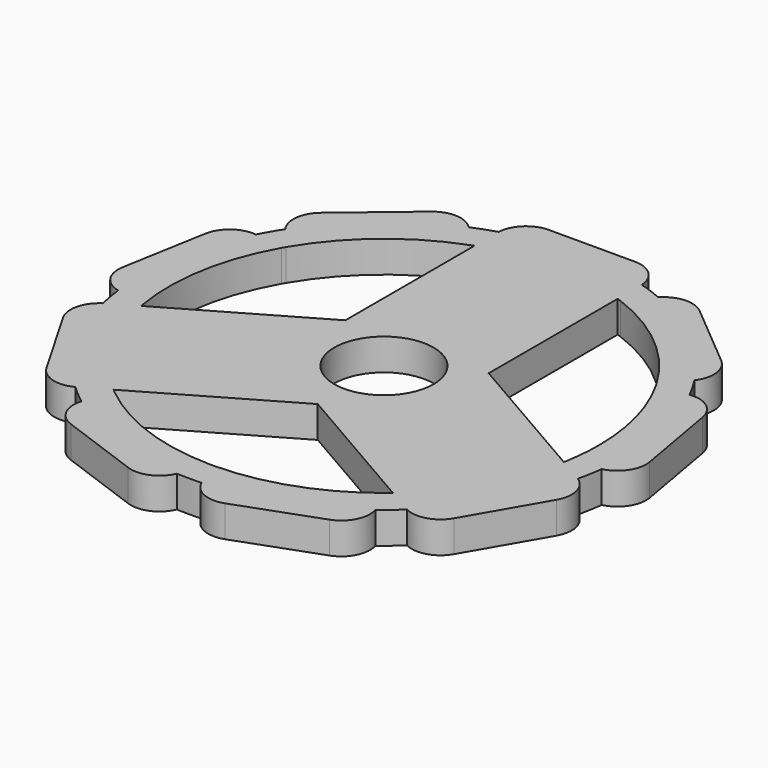
from build123d import *

# Parameters (mm, degrees)
F0_R     = 15.875
F0_R_2   = 11
F1_DEPTH = 7


with BuildPart() as f1:
    # F0 (on Top) → F1 (new body)
    with BuildSketch(Plane.XY):
        with BuildLine():
            ThreePointArc((41.4624644399, 23.4308486311), (46.0586066547, 12.1138506688), (47.625, 0))
            ThreePointArc((47.625, 0), (47.4624210197, -3.931820946), (46.9757940808, -7.836797527))
            Line((46.9757940808, -7.836797527), (53.2293233124, -6.7341315989))
            ThreePointArc((53.2293233124, -6.7341315989), (53.3959889037, -6.7024427295), (53.5617484649, -6.6663128026))
            ThreePointArc((53.5617484649, -6.6663128026), (53.8715880516, -3.3395547313), (53.975, 0))
            ThreePointArc((53.975, 0), (52.4732499869, 12.6435224842), (48.0515665287, 24.5834818352))
            ThreePointArc((48.0515665287, 24.5834818352), (47.8834463294, 24.560739752), (47.7159936715, 24.5335145593))
            Line((47.7159936715, 24.5335145593), (41.4624644399, 23.4308486311))
        make_face()
        with BuildLine():
            ThreePointArc((41.0229423667, 24.1921231929), (41.2444598552, 23.8125), (41.4624644399, 23.4308486311))
            Line((41.4624644399, 23.4308486311), (47.7159936715, 24.5335145593))
            ThreePointArc((47.7159936715, 24.5335145593), (47.8834463294, 24.560739752), (48.0515665287, 24.5834818352))
            ThreePointArc((48.0515665287, 24.5834818352), (46.7437211693, 26.9875), (45.3157030471, 29.3221363879))
            ThreePointArc((45.3157030471, 29.3221363879), (45.2119477257, 29.187911066), (45.1046436882, 29.0565054067))
            Line((45.1046436882, 29.0565054067), (41.0229423667, 24.1921231929))
        make_face()
        with BuildLine():
            Line((53.2293233124, -6.7341315989), (46.9757940808, -7.836797527))
            ThreePointArc((46.9757940808, -7.836797527), (46.9014692372, -8.2699944614), (46.8231496667, -8.7024870176))
            Line((46.8231496667, -8.7024870176), (52.3224109807, -11.8774870176))
            ThreePointArc((52.3224109807, -11.8774870176), (52.4681871753, -11.9642678037), (52.6115930491, -12.0549119383))
            ThreePointArc((52.6115930491, -12.0549119383), (53.1549984688, -9.3726603896), (53.5617484649, -6.6663128026))
            ThreePointArc((53.5617484649, -6.6663128026), (53.3959889037, -6.7024427295), (53.2293233124, -6.7341315989))
        make_face()
        with BuildLine():
            ThreePointArc((16.7010312977, 44.6006298004), (30.6127599113, 36.4828666035), (41.0229423667, 24.1921231929))
            Line((41.0229423667, 24.1921231929), (45.1046436882, 29.0565054067))
            ThreePointArc((45.1046436882, 29.0565054067), (45.2119477257, 29.187911066), (45.3157030471, 29.3221363879))
            ThreePointArc((45.3157030471, 29.3221363879), (34.6944612328, 41.3472488173), (21.0076779958, 49.718991243))
            ThreePointArc((21.0076779958, 49.718991243), (20.8935087807, 49.5935042155), (20.7827326192, 49.4650120142))
            Line((20.7827326192, 49.4650120142), (16.7010312977, 44.6006298004))
        make_face()
        with BuildLine():
            Line((52.3224109807, -11.8774870176), (46.8231496667, -8.7024870176))
            ThreePointArc((46.8231496667, -8.7024870176), (41.2444598552, -23.8125), (30.9481496667, -36.1987935878))
            Line((30.9481496667, -36.1987935878), (36.4474109807, -39.3737935878))
            ThreePointArc((36.4474109807, -39.3737935878), (36.5954534434, -39.4566490825), (36.7456565035, -39.5355201449))
            ThreePointArc((36.7456565035, -39.5355201449), (46.7437211693, -26.9875), (52.6115930491, -12.0549119383))
            ThreePointArc((52.6115930491, -12.0549119383), (52.4681871753, -11.9642678037), (52.3224109807, -11.8774870176))
        make_face()
        with BuildLine():
            ThreePointArc((15.875, 44.9012806053), (16.2887093259, 44.7528610649), (16.7010312977, 44.6006298004))
            Line((16.7010312977, 44.6006298004), (20.7827326192, 49.4650120142))
            ThreePointArc((20.7827326192, 49.4650120142), (20.8935087807, 49.5935042155), (21.0076779958, 49.718991243))
            ThreePointArc((21.0076779958, 49.718991243), (18.460537236, 50.7199092069), (15.8659365456, 51.5904320832))
            ThreePointArc((15.8659365456, 51.5904320832), (15.872733732, 51.4209168862), (15.875, 51.2512806053))
            Line((15.875, 51.2512806053), (15.875, 44.9012806053))
        make_face()
        with BuildLine():
            ThreePointArc((55.0721888313, 19.3826512558), (52.5985279988, 23.3824450174), (48.0515665287, 24.5834818352))
            ThreePointArc((48.0515665287, 24.5834818352), (52.4732499869, 12.6435224842), (53.975, 0))
            ThreePointArc((53.975, 0), (53.8715880516, -3.3395547313), (53.5617484649, -6.6663128026))
            ThreePointArc((53.5617484649, -6.6663128026), (57.4237158208, -3.9825549539), (58.3801866159, 0.622063561))
            Line((58.3801866159, 0.622063561), (55.0721888313, 19.3826512558))
        make_face()
        with BuildLine():
            Line((36.4474109807, -39.3737935878), (30.9481496667, -36.1987935878))
            ThreePointArc((30.9481496667, -36.1987935878), (30.6127599113, -36.4828666035), (30.2747627831, -36.7638322734))
            Line((30.2747627831, -36.7638322734), (32.4465906932, -42.7308804154))
            ThreePointArc((32.4465906932, -42.7308804154), (32.502480123, -42.891061486), (32.5540704691, -43.0526784404))
            ThreePointArc((32.5540704691, -43.0526784404), (34.6944612328, -41.3472488173), (36.7456565035, -39.5355201449))
            ThreePointArc((36.7456565035, -39.5355201449), (36.5954534434, -39.4566490825), (36.4474109807, -39.3737935878))
        make_face()
        with BuildLine():
            ThreePointArc((-15.875, 44.9012806053), (0, 47.625), (15.875, 44.9012806053))
            Line((15.875, 44.9012806053), (15.875, 51.2512806053))
            ThreePointArc((15.875, 51.2512806053), (15.872733732, 51.4209168862), (15.8659365456, 51.5904320832))
            ThreePointArc((15.8659365456, 51.5904320832), (0, 53.975), (-15.8659365456, 51.5904320832))
            ThreePointArc((-15.8659365456, 51.5904320832), (-15.872733732, 51.4209168862), (-15.875, 51.2512806053))
            Line((-15.875, 51.2512806053), (-15.875, 44.9012806053))
        make_face()
        with BuildLine():
            ThreePointArc((21.0076779958, 49.718991243), (34.6944612328, 41.3472488173), (45.3157030471, 29.3221363879))
            ThreePointArc((45.3157030471, 29.3221363879), (46.549055387, 33.86043894), (44.3219627959, 38.002588942))
            Line((44.3219627959, 38.002588942), (29.7288161545, 50.2476929065))
            ThreePointArc((29.7288161545, 50.2476929065), (25.2628641484, 51.7216741575), (21.0076779958, 49.718991243))
        make_face()
        with BuildLine():
            Line((32.4465906932, -42.7308804154), (30.2747627831, -36.7638322734))
            ThreePointArc((30.2747627831, -36.7638322734), (16.2887093259, -44.7528610649), (0.4395220732, -47.622971824))
            Line((0.4395220732, -47.622971824), (2.6113499833, -53.590019966))
            ThreePointArc((2.6113499833, -53.590019966), (2.6714986037, -53.748650818), (2.7358634816, -53.9056182231))
            ThreePointArc((2.7358634816, -53.9056182231), (18.460537236, -50.7199092069), (32.5540704691, -43.0526784404))
            ThreePointArc((32.5540704691, -43.0526784404), (32.502480123, -42.891061486), (32.4465906932, -42.7308804154))
        make_face()
        with BuildLine():
            ThreePointArc((54.6466722947, -20.5517483316), (55.3227560311, -15.8976900133), (52.6115930491, -12.0549119383))
            ThreePointArc((52.6115930491, -12.0549119383), (46.7437211693, -26.9875), (36.7456565035, -39.5355201449))
            ThreePointArc((36.7456565035, -39.5355201449), (41.4291814286, -39.9620671236), (45.1216722947, -37.0495322737))
            Line((45.1216722947, -37.0495322737), (54.6466722947, -20.5517483316))
        make_face()
        with BuildLine():
            ThreePointArc((-16.7010312977, 44.6006298004), (-16.2887093259, 44.7528610649), (-15.875, 44.9012806053))
            Line((-15.875, 44.9012806053), (-15.875, 51.2512806053))
            ThreePointArc((-15.875, 51.2512806053), (-15.872733732, 51.4209168862), (-15.8659365456, 51.5904320832))
            ThreePointArc((-15.8659365456, 51.5904320832), (-18.460537236, 50.7199092069), (-21.0076779958, 49.718991243))
            ThreePointArc((-21.0076779958, 49.718991243), (-20.8935087807, 49.5935042155), (-20.7827326192, 49.4650120142))
            Line((-20.7827326192, 49.4650120142), (-16.7010312977, 44.6006298004))
        make_face()
        with BuildLine():
            Line((2.6113499833, -53.590019966), (0.4395220732, -47.622971824))
            ThreePointArc((0.4395220732, -47.622971824), (0, -47.625), (-0.4395220732, -47.622971824))
            Line((-0.4395220732, -47.622971824), (-2.6113499833, -53.590019966))
            ThreePointArc((-2.6113499833, -53.590019966), (-2.6714986037, -53.748650818), (-2.7358634816, -53.9056182231))
            ThreePointArc((-2.7358634816, -53.9056182231), (0, -53.975), (2.7358634816, -53.9056182231))
            ThreePointArc((2.7358634816, -53.9056182231), (2.6714986037, -53.748650818), (2.6113499833, -53.590019966))
        make_face()
        with BuildLine():
            Line((-36.4474109807, -39.3737935878), (-30.9481496667, -36.1987935878))
            ThreePointArc((-30.9481496667, -36.1987935878), (-41.2444598552, -23.8125), (-46.8231496667, -8.7024870176))
            Line((-46.8231496667, -8.7024870176), (-52.3224109807, -11.8774870176))
            ThreePointArc((-52.3224109807, -11.8774870176), (-52.4681871753, -11.9642678037), (-52.6115930491, -12.0549119383))
            ThreePointArc((-52.6115930491, -12.0549119383), (-46.7437211693, -26.9875), (-36.7456565035, -39.5355201449))
            ThreePointArc((-36.7456565035, -39.5355201449), (-36.5954534434, -39.4566490825), (-36.4474109807, -39.3737935878))
        make_face()
        with BuildLine():
            ThreePointArc((-30.2747627831, -36.7638322734), (-30.6127599113, -36.4828666035), (-30.9481496667, -36.1987935878))
            Line((-30.9481496667, -36.1987935878), (-36.4474109807, -39.3737935878))
            ThreePointArc((-36.4474109807, -39.3737935878), (-36.5954534434, -39.4566490825), (-36.7456565035, -39.5355201449))
            ThreePointArc((-36.7456565035, -39.5355201449), (-34.6944612328, -41.3472488173), (-32.5540704691, -43.0526784404))
            ThreePointArc((-32.5540704691, -43.0526784404), (-32.502480123, -42.891061486), (-32.4465906932, -42.7308804154))
            Line((-32.4465906932, -42.7308804154), (-30.2747627831, -36.7638322734))
        make_face()
        with BuildLine():
            ThreePointArc((-41.0229423667, 24.1921231929), (-30.6127599113, 36.4828666035), (-16.7010312977, 44.6006298004))
            Line((-16.7010312977, 44.6006298004), (-20.7827326192, 49.4650120142))
            ThreePointArc((-20.7827326192, 49.4650120142), (-20.8935087807, 49.5935042155), (-21.0076779958, 49.718991243))
            ThreePointArc((-21.0076779958, 49.718991243), (-34.6944612328, 41.3472488173), (-45.3157030471, 29.3221363879))
            ThreePointArc((-45.3157030471, 29.3221363879), (-45.2119477257, 29.187911066), (-45.1046436882, 29.0565054067))
            Line((-45.1046436882, 29.0565054067), (-41.0229423667, 24.1921231929))
        make_face()
        with BuildLine():
            ThreePointArc((-15.8659365456, 51.5904320832), (0, 53.975), (15.8659365456, 51.5904320832))
            ThreePointArc((15.8659365456, 51.5904320832), (13.8935746025, 55.8597571369), (9.525, 57.6012806053))
            Line((9.525, 57.6012806053), (-9.525, 57.6012806053))
            ThreePointArc((-9.525, 57.6012806053), (-13.8935746025, 55.8597571369), (-15.8659365456, 51.5904320832))
        make_face()
        with BuildLine():
            Line((-2.6113499833, -53.590019966), (-0.4395220732, -47.622971824))
            ThreePointArc((-0.4395220732, -47.622971824), (-16.2887093259, -44.7528610649), (-30.2747627831, -36.7638322734))
            Line((-30.2747627831, -36.7638322734), (-32.4465906932, -42.7308804154))
            ThreePointArc((-32.4465906932, -42.7308804154), (-32.502480123, -42.891061486), (-32.5540704691, -43.0526784404))
            ThreePointArc((-32.5540704691, -43.0526784404), (-18.460537236, -50.7199092069), (-2.7358634816, -53.9056182231))
            ThreePointArc((-2.7358634816, -53.9056182231), (-2.6714986037, -53.748650818), (-2.6113499833, -53.590019966))
        make_face()
        with BuildLine():
            ThreePointArc((28.6513704614, -50.8697564675), (32.1608516724, -47.7391192036), (32.5540704691, -43.0526784404))
            ThreePointArc((32.5540704691, -43.0526784404), (18.460537236, -50.7199092069), (2.7358634816, -53.9056182231))
            ThreePointArc((2.7358634816, -53.9056182231), (6.0494726118, -57.2428839573), (10.7502260354, -57.3852401978))
            Line((10.7502260354, -57.3852401978), (28.6513704614, -50.8697564675))
        make_face()
        with BuildLine():
            Line((-52.3224109807, -11.8774870176), (-46.8231496667, -8.7024870176))
            ThreePointArc((-46.8231496667, -8.7024870176), (-46.9014692372, -8.2699944614), (-46.9757940808, -7.836797527))
            Line((-46.9757940808, -7.836797527), (-53.2293233124, -6.7341315989))
            ThreePointArc((-53.2293233124, -6.7341315989), (-53.3959889037, -6.7024427295), (-53.5617484649, -6.6663128026))
            ThreePointArc((-53.5617484649, -6.6663128026), (-53.1549984688, -9.3726603896), (-52.6115930491, -12.0549119383))
            ThreePointArc((-52.6115930491, -12.0549119383), (-52.4681871753, -11.9642678037), (-52.3224109807, -11.8774870176))
        make_face()
        with BuildLine():
            ThreePointArc((-41.4624644399, 23.4308486311), (-41.2444598552, 23.8125), (-41.0229423667, 24.1921231929))
            Line((-41.0229423667, 24.1921231929), (-45.1046436882, 29.0565054067))
            ThreePointArc((-45.1046436882, 29.0565054067), (-45.2119477257, 29.187911066), (-45.3157030471, 29.3221363879))
            ThreePointArc((-45.3157030471, 29.3221363879), (-46.7437211693, 26.9875), (-48.0515665287, 24.5834818352))
            ThreePointArc((-48.0515665287, 24.5834818352), (-47.8834463294, 24.560739752), (-47.7159936715, 24.5335145593))
            Line((-47.7159936715, 24.5335145593), (-41.4624644399, 23.4308486311))
        make_face()
        with BuildLine():
            Line((-53.2293233124, -6.7341315989), (-46.9757940808, -7.836797527))
            ThreePointArc((-46.9757940808, -7.836797527), (-46.9014692372, 8.2699944614), (-41.4624644399, 23.4308486311))
            Line((-41.4624644399, 23.4308486311), (-47.7159936715, 24.5335145593))
            ThreePointArc((-47.7159936715, 24.5335145593), (-47.8834463294, 24.560739752), (-48.0515665287, 24.5834818352))
            ThreePointArc((-48.0515665287, 24.5834818352), (-53.1549984688, 9.3726603896), (-53.5617484649, -6.6663128026))
            ThreePointArc((-53.5617484649, -6.6663128026), (-53.3959889037, -6.7024427295), (-53.2293233124, -6.7341315989))
        make_face()
        with BuildLine():
            ThreePointArc((-45.1216722947, -37.0495322737), (-41.4291814286, -39.9620671236), (-36.7456565035, -39.5355201449))
            ThreePointArc((-36.7456565035, -39.5355201449), (-46.7437211693, -26.9875), (-52.6115930491, -12.0549119383))
            ThreePointArc((-52.6115930491, -12.0549119383), (-55.3227560311, -15.8976900133), (-54.6466722947, -20.5517483316))
            Line((-54.6466722947, -20.5517483316), (-45.1216722947, -37.0495322737))
        make_face()
        with BuildLine():
            ThreePointArc((-45.3157030471, 29.3221363879), (-34.6944612328, 41.3472488173), (-21.0076779958, 49.718991243))
            ThreePointArc((-21.0076779958, 49.718991243), (-25.2628641484, 51.7216741575), (-29.7288161545, 50.2476929065))
            Line((-29.7288161545, 50.2476929065), (-44.3219627959, 38.002588942))
            ThreePointArc((-44.3219627959, 38.002588942), (-46.549055387, 33.86043894), (-45.3157030471, 29.3221363879))
        make_face()
        with BuildLine():
            ThreePointArc((-10.7502260354, -57.3852401978), (-6.0494726118, -57.2428839573), (-2.7358634816, -53.9056182231))
            ThreePointArc((-2.7358634816, -53.9056182231), (-18.460537236, -50.7199092069), (-32.5540704691, -43.0526784404))
            ThreePointArc((-32.5540704691, -43.0526784404), (-32.1608516724, -47.7391192036), (-28.6513704614, -50.8697564675))
            Line((-28.6513704614, -50.8697564675), (-10.7502260354, -57.3852401978))
        make_face()
        with BuildLine():
            ThreePointArc((-58.3801866159, 0.622063561), (-57.4237158208, -3.9825549539), (-53.5617484649, -6.6663128026))
            ThreePointArc((-53.5617484649, -6.6663128026), (-53.1549984688, 9.3726603896), (-48.0515665287, 24.5834818352))
            ThreePointArc((-48.0515665287, 24.5834818352), (-52.5985279988, 23.3824450174), (-55.0721888313, 19.3826512558))
            Line((-55.0721888313, 19.3826512558), (-58.3801866159, 0.622063561))
        make_face()
        Polygon((30.9481496667, -36.1987935878), (46.8231496667, -8.7024870176), (15.875, 9.1654355234), (15.875, 44.9012806053), (-15.875, 44.9012806053), (-15.875, 9.1654355234), (-46.8231496667, -8.7024870176), (-30.9481496667, -36.1987935878), (0, -18.3308710468), align=None)
        Circle(F0_R, mode=Mode.SUBTRACT)
        Circle(F0_R)
        Circle(F0_R_2, mode=Mode.SUBTRACT)
        with BuildLine():
            Line((-15.875, 44.9012806053), (15.875, 44.9012806053))
            ThreePointArc((15.875, 44.9012806053), (0, 47.625), (-15.875, 44.9012806053))
        make_face()
        with BuildLine():
            ThreePointArc((-46.8231496667, -8.7024870176), (-41.2444598552, -23.8125), (-30.9481496667, -36.1987935878))
            Line((-30.9481496667, -36.1987935878), (-46.8231496667, -8.7024870176))
        make_face()
        with BuildLine():
            ThreePointArc((30.9481496667, -36.1987935878), (41.2444598552, -23.8125), (46.8231496667, -8.7024870176))
            Line((46.8231496667, -8.7024870176), (30.9481496667, -36.1987935878))
        make_face()
    extrude(amount=F1_DEPTH)


solid = f1.part
